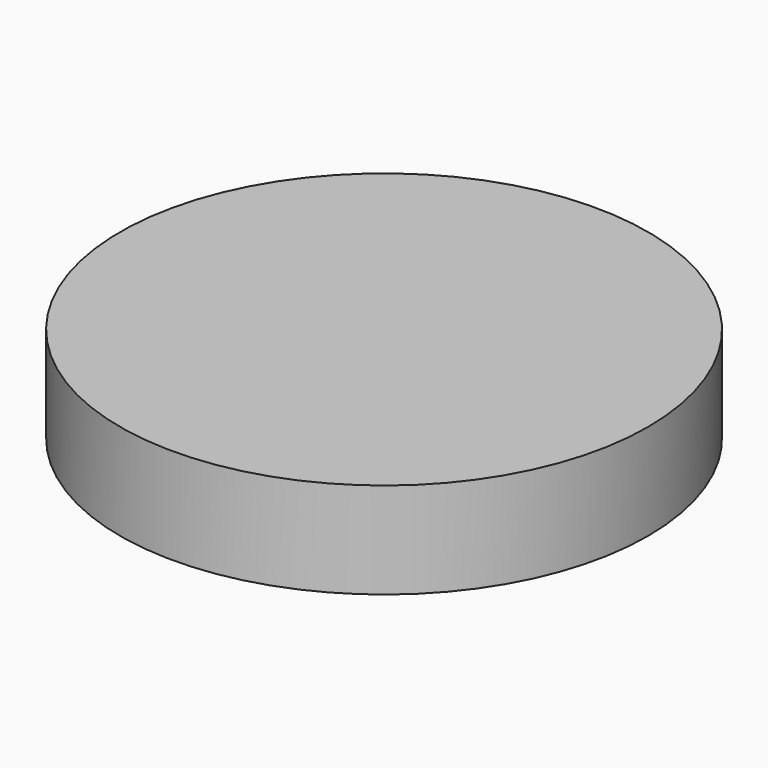
from build123d import *

# Parameters (mm, degrees)
F0_R          = 27.5
F1_DEPTH      = 5
F1_DEPTH_BACK = 5
F3_R          = 21.899998
F4_DEPTH      = 2.1


with BuildPart() as f1:
    # F0 (on Top) → F1 (new body, two sides)
    with BuildSketch(Plane.XY) as f1_sk:
        with Locations((-37.644643, 39.460305)):
            Circle(F0_R)
    extrude(amount=F1_DEPTH)
    extrude(f1_sk.sketch, amount=-F1_DEPTH_BACK)

    # F3 (on Top) → F4 (cut)
    with BuildSketch(Plane.XY):
        with Locations((-37.644643, 39.460305)):
            Circle(F3_R)
    extrude(amount=F4_DEPTH, mode=Mode.SUBTRACT)


solid = f1.part
